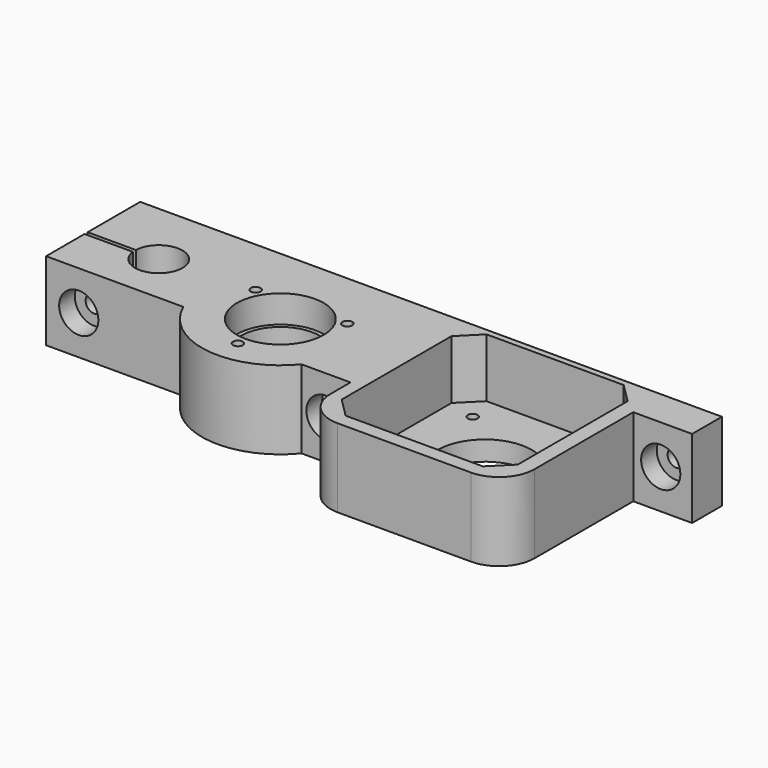
from build123d import *

# Parameters (mm, degrees)
PAD_DEPTH       = 20
SKETCH006_R     = 10
POCKET_DEPTH    = 20.001
SKETCH005_R     = 11.05
POCKET001_DEPTH = 7
SKETCH002_R     = 2.25
POCKET002_DEPTH = 50.001
SKETCH009_R     = 11.05
POCKET006_DEPTH = 7
SKETCH010_R     = 6.05
POCKET007_DEPTH = 20.001
SKETCH011_W     = 25
SKETCH011_H     = 1
POCKET008_DEPTH = 20.001
SKETCH012_R     = 1.25
POCKET009_DEPTH = 20.001
SKETCH008_R     = 5
POCKET010_DEPTH = 5
SKETCH013_R     = 5
POCKET011_DEPTH = 5
SKETCH014_R     = 5
POCKET012_DEPTH = 5
POCKET013_DEPTH = 15
SKETCH016_R     = 1.25
POCKET014_DEPTH = 20.001
SKETCH017_R     = 3
POCKET015_DEPTH = 3
SKETCH018_R     = 12
POCKET016_DEPTH = 5
FILLET_R        = 9


with BuildPart() as part:
    # Sketch → Pad (new body)
    with BuildSketch(Plane.XY):
        with BuildLine():
            Line((-53.330303, 22), (95, 22))
            Line((95, 12.5), (95, 22))
            Line((95, 12.5), (80, 12.5))
            Line((80, -28), (80, 12.5))
            Line((28, -28), (80, -28))
            Line((28, -28), (28, -12.639225))
            Line((28, -12.639225), (15.5, -12.639225))
            ThreePointArc((-18.330303, -8), (-2.717215, -19.814559), (15.5, -12.639225))
            Line((-18.330303, -8), (-53.330303, -8))
            Line((-53.330303, -8), (-53.330303, 22))
        make_face()
    extrude(amount=PAD_DEPTH)

    # Sketch006 → Pocket (cut, through all)
    with BuildSketch(Plane(origin=(0, 0, 0), x_dir=(1, 0, 0), z_dir=(0, 0, -1))):
        Circle(SKETCH006_R)
    extrude(amount=-POCKET_DEPTH, mode=Mode.SUBTRACT)

    # Sketch005 → Pocket001 (cut)
    with BuildSketch(Plane.XY.offset(20)):
        Circle(SKETCH005_R)
    extrude(amount=-POCKET001_DEPTH, mode=Mode.SUBTRACT)

    # Sketch002 → Pocket002 (cut, through all)
    with BuildSketch(Plane.XZ.offset(28)):
        with Locations((21.75, 10)):
            Circle(SKETCH002_R)
        with Locations((-45, 10)):
            Circle(SKETCH002_R)
        with Locations((87, 10)):
            Circle(SKETCH002_R)
    extrude(amount=-POCKET002_DEPTH, mode=Mode.SUBTRACT)

    # Sketch009 → Pocket006 (cut)
    with BuildSketch(Plane(origin=(0, 0, 0), x_dir=(1, 0, 0), z_dir=(0, 0, -1))):
        Circle(SKETCH009_R)
    extrude(amount=-POCKET006_DEPTH, mode=Mode.SUBTRACT)

    # Sketch010 → Pocket007 (cut, through all)
    with BuildSketch(Plane.XY.offset(20)):
        with Locations((-35, 5)):
            Circle(SKETCH010_R)
    extrude(amount=-POCKET007_DEPTH, mode=Mode.SUBTRACT)

    # Sketch011 → Pocket008 (cut, through all)
    with BuildSketch(Plane.XY.offset(20)):
        with Locations((-42.5, 4.75)):
            Rectangle(SKETCH011_W, SKETCH011_H)
    extrude(amount=-POCKET008_DEPTH, mode=Mode.SUBTRACT)

    # Sketch012 → Pocket009 (cut, through all)
    with BuildSketch(Plane.XY.offset(20)):
        with Locations((11.691343, 6.75)):
            Circle(SKETCH012_R)
        with Locations((-11.691343, 6.75)):
            Circle(SKETCH012_R)
        with Locations((0, -13.5)):
            Circle(SKETCH012_R)
    extrude(amount=-POCKET009_DEPTH, mode=Mode.SUBTRACT)

    # Sketch008 → Pocket010 (cut)
    with BuildSketch(Plane.XZ.offset(8)):
        with Locations((-45, 10)):
            Circle(SKETCH008_R)
    extrude(amount=-POCKET010_DEPTH, mode=Mode.SUBTRACT)

    # Sketch013 → Pocket011 (cut)
    with BuildSketch(Plane.XZ.offset(12.639225)):
        with Locations((21.75, 10)):
            Circle(SKETCH013_R)
    extrude(amount=-POCKET011_DEPTH, mode=Mode.SUBTRACT)

    # Sketch014 → Pocket012 (cut)
    with BuildSketch(Plane.XZ.offset(-12.5)):
        with Locations((87, 10)):
            Circle(SKETCH014_R)
    extrude(amount=-POCKET012_DEPTH, mode=Mode.SUBTRACT)

    # Sketch015 → Pocket013 (cut)
    with BuildSketch(Plane.XY.offset(20)):
        Polygon((31.25, -19.5), (31.25, 15.5), (36.199747, 20.449747), (71.199747, 20.449747), (76.149495, 15.5), (76.149495, -19.5), (71.199747, -24.449747), (36.199747, -24.449747), align=None)
    extrude(amount=-POCKET013_DEPTH, mode=Mode.SUBTRACT)

    # Sketch016 → Pocket014 (cut, through all)
    with BuildSketch(Plane(origin=(0, 0, 0), x_dir=(1, 0, 0), z_dir=(0, 0, -1))):
        with Locations((38.25, 17.5)):
            Circle(SKETCH016_R)
        with Locations((69.25, 17.5)):
            Circle(SKETCH016_R)
        with Locations((38.25, -13.5)):
            Circle(SKETCH016_R)
        with Locations((69.25, -13.5)):
            Circle(SKETCH016_R)
    extrude(amount=-POCKET014_DEPTH, mode=Mode.SUBTRACT)

    # Sketch017 → Pocket015 (cut)
    with BuildSketch(Plane(origin=(0, 0, 0), x_dir=(1, 0, 0), z_dir=(0, 0, -1))):
        with Locations((38.25, 17.5)):
            Circle(SKETCH017_R)
        with Locations((69.25, 17.5)):
            Circle(SKETCH017_R)
        with Locations((38.25, -13.5)):
            Circle(SKETCH017_R)
        with Locations((69.25, -13.5)):
            Circle(SKETCH017_R)
    extrude(amount=-POCKET015_DEPTH, mode=Mode.SUBTRACT)

    # Sketch018 → Pocket016 (cut)
    with BuildSketch(Plane(origin=(0, 0, 0), x_dir=(1, 0, 0), z_dir=(0, 0, -1))):
        with Locations((53.75, 2)):
            Circle(SKETCH018_R)
    extrude(amount=-POCKET016_DEPTH, mode=Mode.SUBTRACT)

    # Fillet
    fillet_edges = [part.edges().sort_by_distance(p)[0] for p in [
        (28, -28, 10),
        (80, -28, 10),
    ]]
    fillet(fillet_edges, radius=FILLET_R)


solid = part.part
